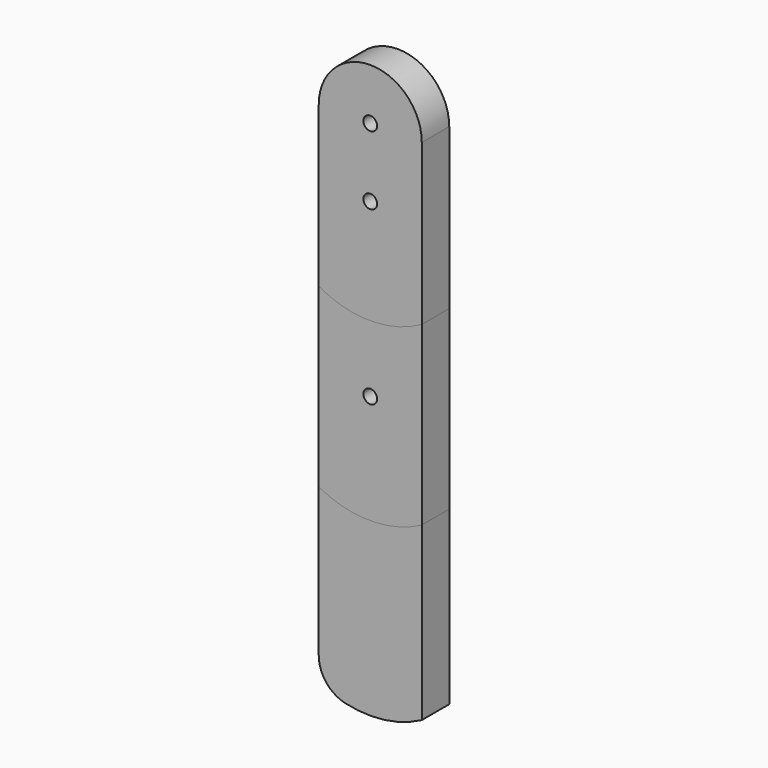
from build123d import *

# Parameters (mm, degrees)
F0_R     = 40
F1_DEPTH = 100
F2_DEPTH = 100
F3_DEPTH = 100


with BuildPart() as f1:
    # F0 (on Front) → F1 (new body, symmetric)
    with BuildSketch(Plane.XZ):
        with BuildLine():
            Line((300, -932.945894), (300, 0))
            ThreePointArc((300, 0), (0, 300), (-300, 0))
            Line((-300, 0), (-300, -932.945894))
            ThreePointArc((-300, -932.945894), (0, -1011.581005), (300, -932.945894))
        make_face()
        with Locations((0, -400)):
            Circle(F0_R, mode=Mode.SUBTRACT)
        Circle(F0_R, mode=Mode.SUBTRACT)
    extrude(amount=F1_DEPTH, both=True)


with BuildPart() as f2:
    # F0 (on Front) → F2 (new body, symmetric)
    with BuildSketch(Plane.XZ):
        with BuildLine():
            Line((300, -1961.438973), (300, -932.945894))
            ThreePointArc((300, -932.945894), (0, -1011.581005), (-300, -932.945894))
            Line((-300, -932.945894), (-300, -1961.438973))
            ThreePointArc((-300, -1961.438973), (0, -2036.563995), (300, -1961.438973))
        make_face()
        with Locations((0, -1400)):
            Circle(F0_R, mode=Mode.SUBTRACT)
    extrude(amount=F2_DEPTH, both=True)


with BuildPart() as f3:
    # F0 (on Front) → F3 (new body, symmetric)
    with BuildSketch(Plane.XZ):
        with BuildLine():
            Line((300, -2961.438973), (300, -1961.438973))
            ThreePointArc((300, -1961.438973), (0, -2036.563995), (-300, -1961.438973))
            Line((-300, -1961.438973), (-300, -2824.956612))
            ThreePointArc((-300, -2824.956612), (-256.784023, -2949.128953), (-145.812298, -3019.639003))
            ThreePointArc((-145.812298, -3019.639003), (82.403111, -3031.207927), (300, -2961.438973))
        make_face()
    extrude(amount=F3_DEPTH, both=True)


solid = Compound([f1.part, f2.part, f3.part])
